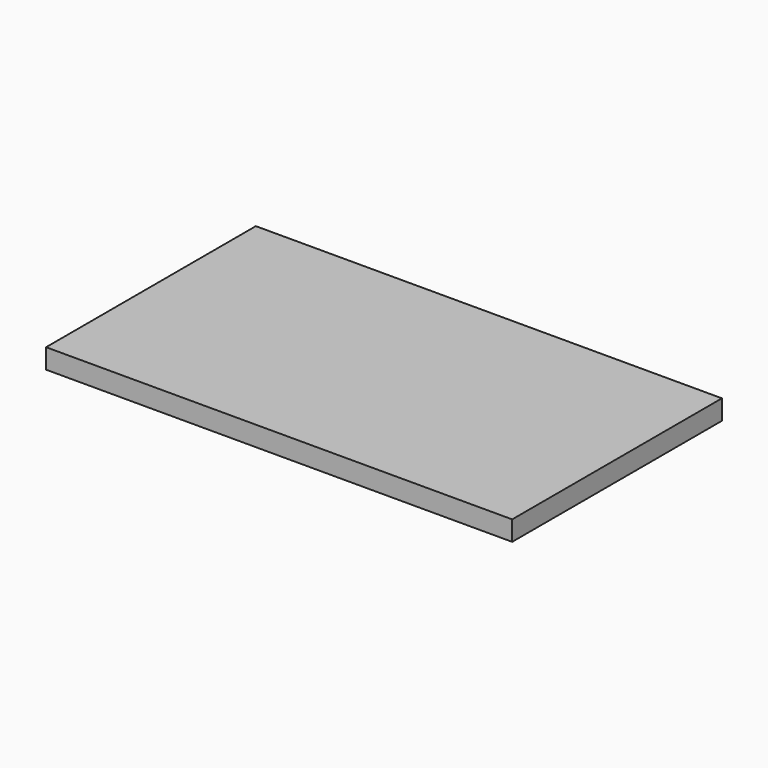
from build123d import *

# Parameters (mm, degrees)
SKETCH_W  = 50.8
SKETCH_H  = 28.575
PAD_DEPTH = 2.159


with BuildPart() as part:
    # Sketch → Pad (new body)
    with BuildSketch(Plane.XY):
        Rectangle(SKETCH_W, SKETCH_H)
    extrude(amount=PAD_DEPTH)


solid = part.part
